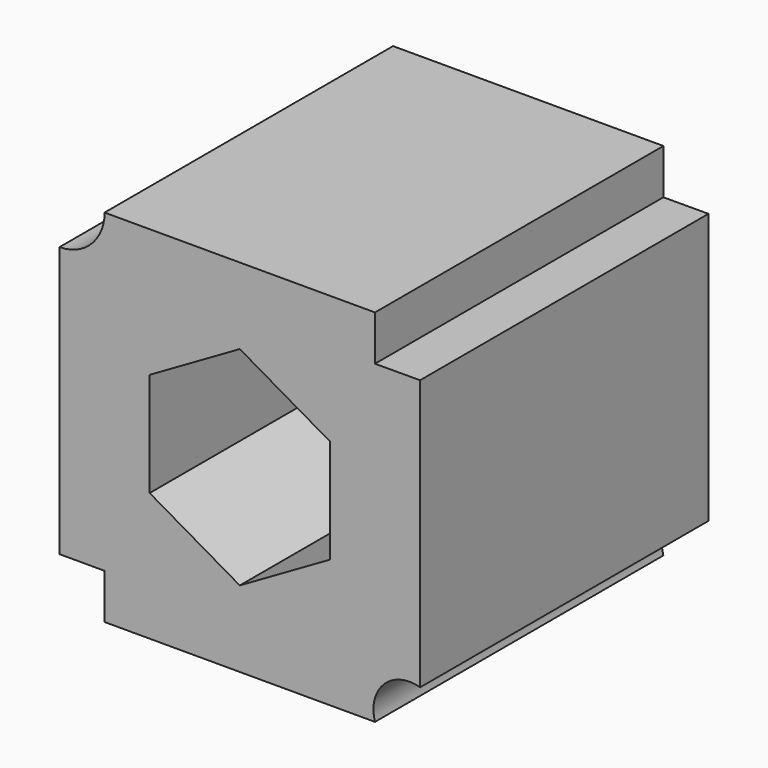
from build123d import *

# Parameters (mm, degrees)
F1_DEPTH = 25.4


with BuildPart() as f1:
    # F0 (on Front) → F1 (new body)
    with BuildSketch(Plane.XZ):
        with BuildLine():
            Line((-9.525, -12.7), (9.525, -12.7))
            ThreePointArc((9.525, -12.7), (10.156475, -10.156475), (12.7, -9.525))
            Line((12.7, -9.525), (12.7, 9.525))
            Line((12.7, 9.525), (9.525, 9.516916))
            Line((9.525, 9.516916), (9.525, 12.7))
            Line((9.525, 12.7), (-9.525, 12.7))
            ThreePointArc((-9.525, 12.7), (-10.454936, 10.454936), (-12.7, 9.525))
            Line((-12.7, 9.525), (-12.7, -9.525))
            Line((-12.7, -9.525), (-9.525, -9.525))
            Line((-9.525, -9.525), (-9.525, -12.7))
        make_face()
        Polygon((6.35, 3.666174), (6.35, -3.666174), (0, -7.332348), (-6.35, -3.666174), (-6.35, 3.666174), (0, 7.332348), align=None, mode=Mode.SUBTRACT)
    extrude(amount=F1_DEPTH)


solid = f1.part
